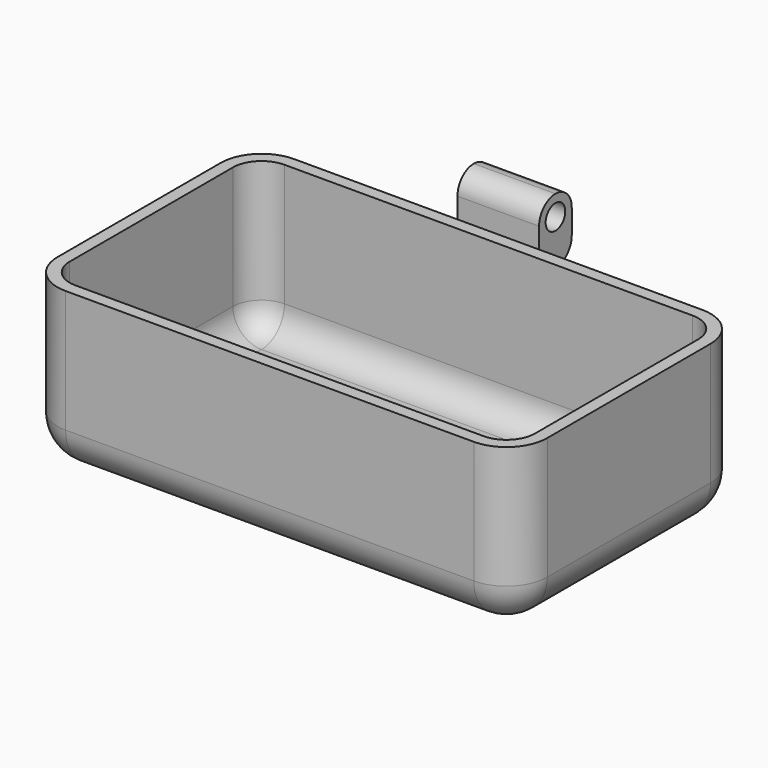
from build123d import *

# Parameters (mm, degrees)
SKETCH_W     = 60
SKETCH_H     = 35
PAD_DEPTH    = 20
FILLET_R     = 5
THICKNESS_T  = -1.5
SKETCH001_W  = 5
SKETCH001_H  = 8
SKETCH001_R  = 1.5
PAD001_DEPTH = 5
FILLET001_R  = 2.49


with BuildPart() as part:
    # Sketch → Pad (new body)
    with BuildSketch(Plane.XY):
        Rectangle(SKETCH_W, SKETCH_H)
    extrude(amount=-PAD_DEPTH)

    # Fillet
    fillet_edges = [part.edges().sort_by_distance(p)[0] for p in [
        (0, -17.5, -20),
        (30, 0, -20),
        (0, 17.5, -20),
        (-30, 0, -20),
        (30, 17.5, -10),
        (30, -17.5, -10),
        (-30, 17.5, -10),
        (-30, -17.5, -10),
    ]]
    fillet(fillet_edges, radius=FILLET_R)

    # Thickness
    thickness_openings = [part.faces().sort_by_distance(p)[0] for p in [
        (0, 0, 0),
    ]]
    offset(amount=THICKNESS_T, openings=thickness_openings)

    # Sketch001 → Pad001 (join, symmetric)
    with BuildSketch(Plane.YZ):
        with Locations((20, 1)):
            Rectangle(SKETCH001_W, SKETCH001_H)
        with Locations((20, 2.5)):
            Circle(SKETCH001_R, mode=Mode.SUBTRACT)
    extrude(amount=PAD001_DEPTH, both=True)

    # Fillet001
    fillet001_edges = [part.edges().sort_by_distance(p)[0] for p in [
        (0, 22.5, 5),
        (0, 17.5, 5),
        (0, 22.5, -3),
    ]]
    fillet(fillet001_edges, radius=FILLET001_R)


solid = part.part
